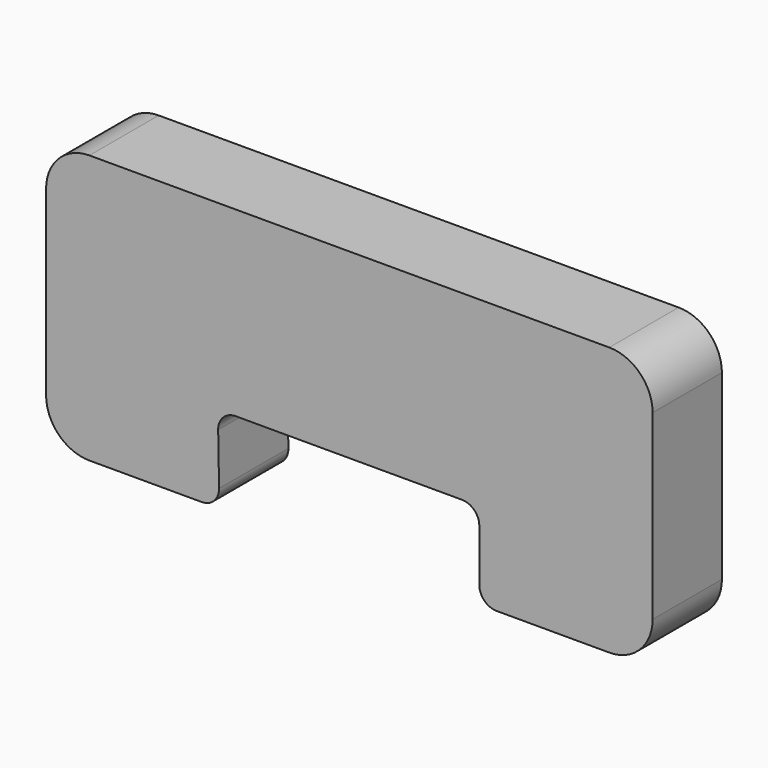
from build123d import *

# Parameters (mm, degrees)
F1_DEPTH = 25.4


with BuildPart() as f1:
    # F0 (on Front) → F1 (new body)
    with BuildSketch(Plane.XZ):
        with BuildLine():
            Line((83.806711, 26.737875), (-68.593289, 26.737875))
            ThreePointArc((-68.593289, 26.737875), (-77.573545, 23.018131), (-81.293289, 14.037875))
            Line((-81.293289, 14.037875), (-81.293289, -39.302125))
            ThreePointArc((-81.293289, -39.302125), (-77.573545, -48.282381), (-68.593289, -52.002125))
            Line((-68.593289, -52.002125), (-35.662433, -52.002125))
            ThreePointArc((-35.662433, -52.002125), (-32.039225, -50.48285), (-30.583202, -46.833763))
            Line((-30.583202, -46.833763), (-30.845185, -31.774329))
            ThreePointArc((-30.845185, -31.774329), (-29.389162, -28.125243), (-25.765954, -26.605968))
            Line((-25.765954, -26.605968), (40.626711, -26.605968))
            ThreePointArc((40.626711, -26.605968), (44.218813, -28.093865), (45.706711, -31.685968))
            Line((45.706711, -31.685968), (45.706711, -46.922125))
            ThreePointArc((45.706711, -46.922125), (47.194608, -50.514227), (50.786711, -52.002125))
            Line((50.786711, -52.002125), (83.806711, -52.002125))
            ThreePointArc((83.806711, -52.002125), (92.786967, -48.282381), (96.506711, -39.302125))
            Line((96.506711, -39.302125), (96.506711, 14.037875))
            ThreePointArc((96.506711, 14.037875), (92.786967, 23.018131), (83.806711, 26.737875))
        make_face()
    extrude(amount=F1_DEPTH)


solid = f1.part
